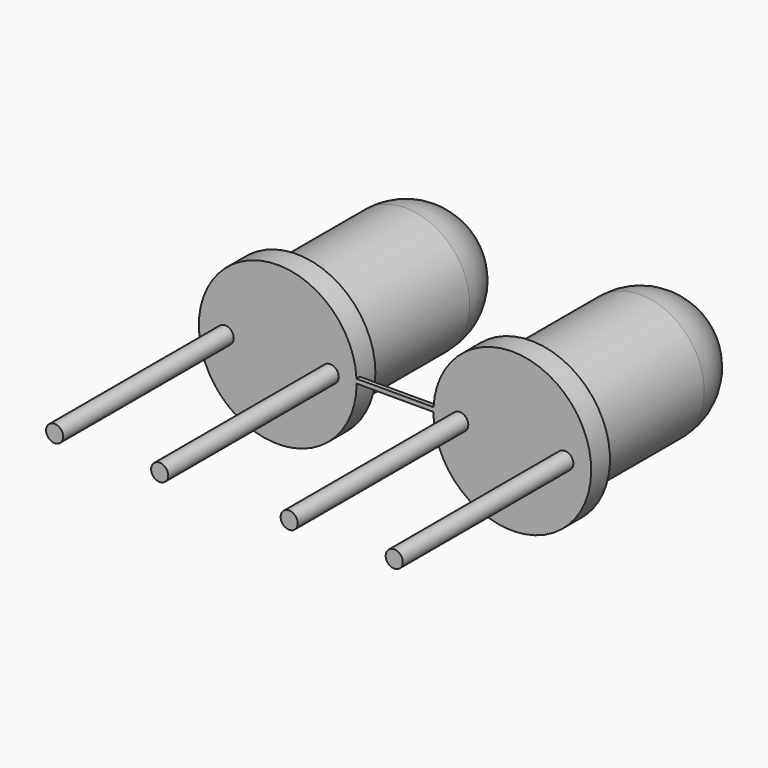
from build123d import *

# Parameters (mm, degrees)
F2_R     = 1.5
F3_R     = 0.2
F4_DEPTH = 5
F6_DEPTH = 0.1


with BuildPart() as f1:
    # F0 (on Top) → F1 (revolve)
    with BuildSketch(Plane.XY):
        Polygon((-1.25, 3.3184025263), (-2.75, 3.3184025263), (-2.75, -1.9315974737), (-1.25, -1.9315974737), (-0.9, -1.9315974737), (-0.9, -1.3815974737), (-1.25, -1.3815974737), align=None)
    revolve(axis=Axis((-2.75, 2.1103734641, 0), (0, 1, 0)))

    # F2
    f2_edges = [f1.edges().sort_by_distance(p)[0] for p in [
        (-4.25, 3.318403, 0),
    ]]
    fillet(f2_edges, radius=F2_R)

    # F3 (on face) → F4 (join)
    with BuildSketch(Plane.XZ.offset(1.9315974737)):
        with Locations((-1.5183771327, 0)):
            Circle(F3_R)
        with Locations((-3.9816228673, 0)):
            Circle(F3_R)
    extrude(amount=F4_DEPTH)


with BuildPart() as f5_1:
    # F5: instance of F1
    add(f1.part.mirror(Plane.YZ))


with BuildPart() as f1_1:
    add(f1.part)

    add(f5_1.part)  # F6 merges F5_1
    # F3 (on face) → F6 (join)
    with BuildSketch(Plane.XZ.offset(1.9315974737)):
        with BuildLine():
            Line((4.0972953202, 0.1), (-0.9027046798, 0.1))
            ThreePointArc((-0.9027046798, 0.1), (-0.9006762936, 0.0500182849), (-0.9, 0))
            Line((-0.9, 0), (4.0972953202, 0))
            Line((4.0972953202, 0), (4.0972953202, 0.1))
        make_face()
    extrude(amount=-F6_DEPTH)


solid = f1_1.part
